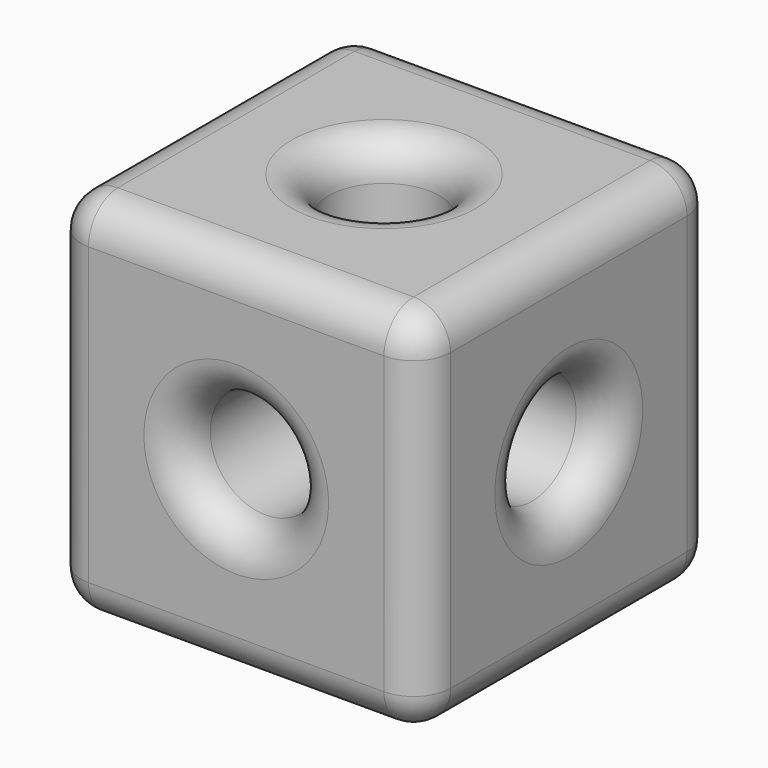
from build123d import *

# Parameters (mm, degrees)
F0_W     = 100
F0_H     = 100
F1_DEPTH = 50
F2_R     = 15
F3_DEPTH = 100
F4_R     = 15
F5_DEPTH = 100.001
F6_R     = 15
F7_DEPTH = 100.001
F8_R     = 10
F9_R     = 10


with BuildPart() as f1:
    # F0 (on Front) → F1 (new body, symmetric)
    with BuildSketch(Plane.XZ):
        Rectangle(F0_W, F0_H)
    extrude(amount=F1_DEPTH, both=True)

    # F2 (on face) → F3 (cut, through all)
    with BuildSketch(Plane(origin=(-50, 0, 0), x_dir=(0, -1, 0), z_dir=(-1, 0, 0))):
        Circle(F2_R)
    extrude(amount=-F3_DEPTH, mode=Mode.SUBTRACT)

    # F4 (on face) → F5 (cut, through all)
    with BuildSketch(Plane(origin=(0, 50, 0), x_dir=(-1, 0, 0), z_dir=(0, 1, 0))):
        Circle(F4_R)
    extrude(amount=-F5_DEPTH, mode=Mode.SUBTRACT)

    # F6 (on face) → F7 (cut, through all)
    with BuildSketch(Plane(origin=(0, 0, -50), x_dir=(1, 0, 0), z_dir=(0, 0, -1))):
        Circle(F6_R)
    extrude(amount=-F7_DEPTH, mode=Mode.SUBTRACT)

    # F8
    f8_edges = [f1.edges().sort_by_distance(p)[0] for p in [
        (50, 0, 50),
        (0, 50, 50),
        (-50, 0, 50),
        (0, -50, 50),
        (50, 50, 0),
        (-50, 50, 0),
        (0, 50, -50),
        (50, 0, -50),
        (50, -50, 0),
        (-50, -50, 0),
        (-50, 0, -50),
        (0, -50, -50),
    ]]
    fillet(f8_edges, radius=F8_R)

    # F9
    f9_edges = [f1.edges().sort_by_distance(p)[0] for p in [
        (-15, 0, 50),
        (15, 50, 0),
        (50, 15, 0),
        (-50, 15, 0),
        (15, -50, 0),
        (-15, 0, -50),
    ]]
    fillet(f9_edges, radius=F9_R)


solid = f1.part
